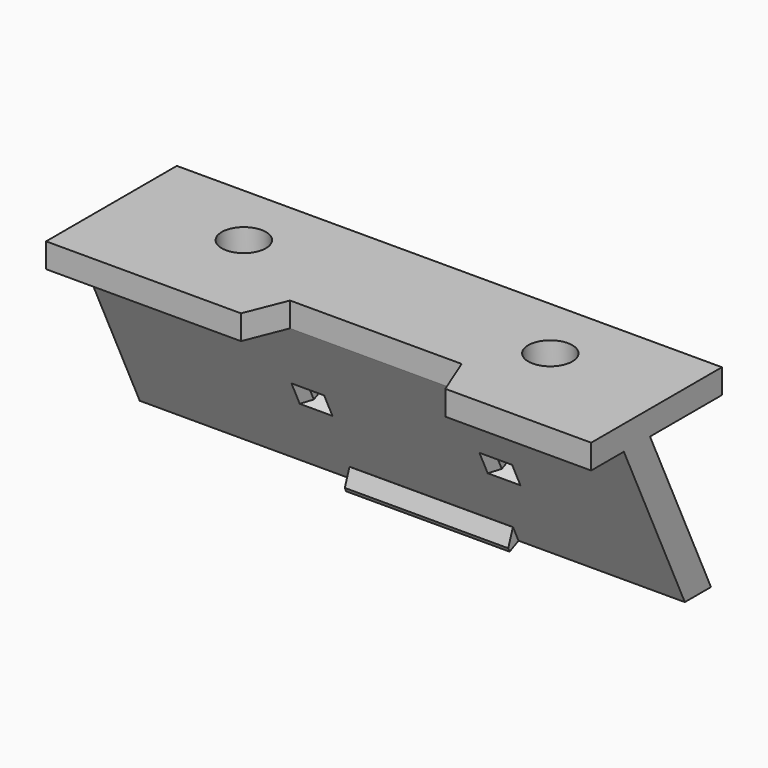
from build123d import *

# Parameters (mm, degrees)
PAD009_DEPTH       = 33.35
SKETCH030_R        = 2.7
POCKET015_DEPTH    = 3
SKETCH031_W        = 3
SKETCH031_H        = 2
POCKET016_DEPTH    = 3.6252311481
POCKET020_DEPTH    = 3.6252311481
SKETCH040_W        = 2
SKETCH040_H        = 20
PAD015_DEPTH       = 1.5
CHAMFER007007_SIZE = 1.49
POCKET021_DEPTH    = 3.001
CHAMFER007008_SIZE = 1
SKETCH042_R        = 5
SKETCH042_R_2      = 2.75
PAD016_DEPTH       = 5


with BuildPart() as part:
    # Sketch029 → Pad009 (new body, symmetric)
    with BuildSketch(Plane.YZ):
        Polygon((-10, 0), (10, 0), (10, -3), (-1, -3), (8.3261531631, -23), (4.3261531631, -23), (-5, -3), (-10, -3), align=None)
    extrude(amount=PAD009_DEPTH, both=True)

    # Sketch030 (on Face1 of Pad009) → Pocket015 (cut)
    with BuildSketch(Plane(origin=(0, 0, 0), x_dir=(0, -1, 0), z_dir=(0, 0, 1))):
        with Locations((-2, 18.75)):
            Circle(SKETCH030_R)
        with Locations((-2, -18.75)):
            Circle(SKETCH030_R)
    extrude(amount=-POCKET015_DEPTH, mode=Mode.SUBTRACT)

    # Sketch031 (on Face12 of Pocket015) → Pocket016 (cut)
    with BuildSketch(Plane(origin=(0, -5.2560356889, -2.4509296933), x_dir=(0, 0.4226182617, -0.906307787), z_dir=(0, -0.906307787, -0.4226182617))):
        with Locations((11.5, 14.5)):
            Rectangle(SKETCH031_W, SKETCH031_H)
        with Locations((11.5, -8.5)):
            Rectangle(SKETCH031_W, SKETCH031_H)
    extrude(amount=-POCKET016_DEPTH, mode=Mode.SUBTRACT)

    # Sketch031 (on Face12 of Pocket015) → Pocket020 (cut)
    with BuildSketch(Plane(origin=(0, -5.2560356889, -2.4509296933), x_dir=(0, 0.4226182617, -0.906307787), z_dir=(0, -0.906307787, -0.4226182617))):
        with Locations((11.5, 14.5)):
            Rectangle(SKETCH031_W, SKETCH031_H)
        with Locations((11.5, -8.5)):
            Rectangle(SKETCH031_W, SKETCH031_H)
    extrude(amount=-POCKET020_DEPTH, mode=Mode.SUBTRACT)

    # Sketch040 (on Face12 of Pocket020) → Pad015 (join)
    with BuildSketch(Plane(origin=(0, -5.2560356889, -2.4509296933), x_dir=(0, 0.4226182617, -0.906307787), z_dir=(0, -0.906307787, -0.4226182617))):
        with Locations((21.6733904317, 3)):
            Rectangle(SKETCH040_W, SKETCH040_H)
    extrude(amount=PAD015_DEPTH)

    # Chamfer007007
    chamfer007007_edges = [part.edges().sort_by_distance(p)[0] for p in [
        (3, 2.121455, -21.821312),
    ]]
    chamfer(chamfer007007_edges, length=CHAMFER007007_SIZE)

    # Sketch041 (on Face9 of Chamfer007007) → Pocket021 (cut, through all)
    with BuildSketch(Plane.YX.offset(3)):
        Polygon((-10, 15.5), (-5, 13.5), (-5, -7.5), (-10, -9.5), align=None)
    extrude(amount=-POCKET021_DEPTH, mode=Mode.SUBTRACT)

    # Chamfer007008
    chamfer007008_edges = [part.edges().sort_by_distance(p)[0] for p in [
        (15.5, -0.395926, -12.873469),
        (13.5, -0.395926, -12.873469),
        (-7.5, -0.395926, -12.873469),
        (-9.5, -0.395926, -12.873469),
        (-9.5, 2.88965, -11.34138),
        (-7.5, 2.88965, -11.34138),
        (13.5, 2.88965, -11.34138),
        (15.5, 2.88965, -11.34138),
    ]]
    chamfer(chamfer007008_edges, length=CHAMFER007008_SIZE)

    # Sketch042 (on Face24 of Chamfer007008) → Pad016 (join)
    with BuildSketch(Plane(origin=(0, 0, 0), x_dir=(0, -1, 0), z_dir=(0, 0, 1))):
        with Locations((-2, -18.75)):
            Circle(SKETCH042_R)
        with Locations((-2, -18.75)):
            Circle(SKETCH042_R_2, mode=Mode.SUBTRACT)
        with Locations((-2, 18.75)):
            Circle(SKETCH042_R)
        with Locations((-2, 18.75)):
            Circle(SKETCH042_R_2, mode=Mode.SUBTRACT)
    extrude(amount=-PAD016_DEPTH)


solid = part.part
